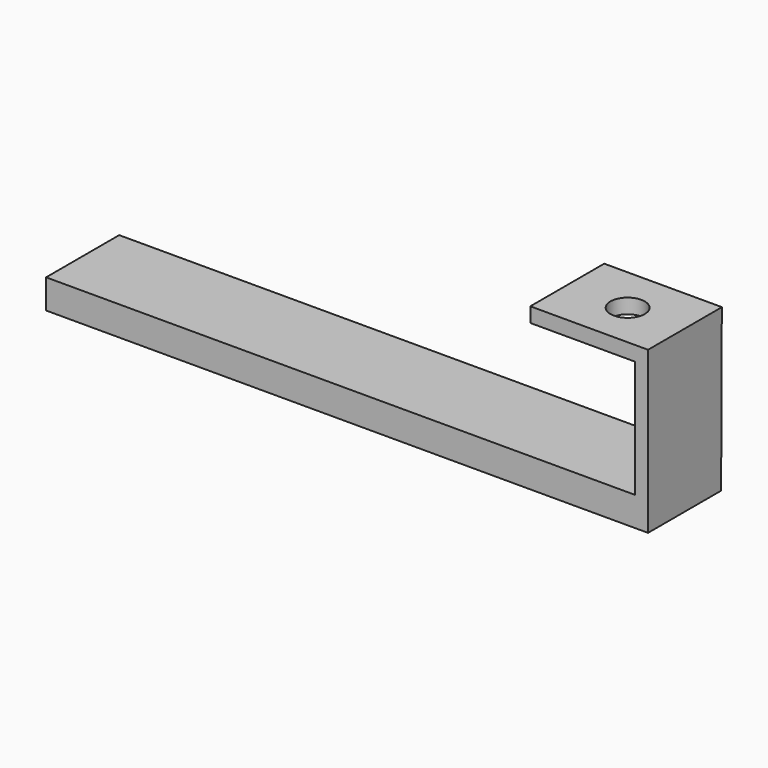
from build123d import *

# Parameters (mm, degrees)
F0_W     = 76.2404734269
F0_H     = 59.8093401641
F1_DEPTH = 9.525
F2_W     = 8.5795149207
F2_H     = 75.9475912213
F3_DEPTH = 59.436
F4_W     = 389.8571208119
F4_H     = 18.9275667071
F5_DEPTH = 59.182
F7_D     = 22.225
F7_DEPTH = 9.526


with BuildPart() as f1:
    # F0 (on Top) → F1 (new body)
    with BuildSketch(Plane.XY):
        with Locations((24.8636114411, -6.689065136)):
            Rectangle(F0_W, F0_H)
    extrude(amount=-F1_DEPTH)

    # F2 (on face) → F3 (join)
    with BuildSketch(Plane.XZ.offset(36.593735218)):
        with Locations((58.6940906942, -47.4987956107)):
            Rectangle(F2_W, F2_H)
    extrude(amount=-F3_DEPTH)

    # F4 (on face) → F5 (join)
    with BuildSketch(Plane.XZ.offset(36.593735218)):
        with Locations((-131.9447122514, -94.9363745749)):
            Rectangle(F4_W, F4_H)
    extrude(amount=-F5_DEPTH)

    # F7 (through all, one way)
    with BuildSketch(Plane(origin=(0, 0, -9.525), x_dir=(1, 0, 0), z_dir=(0, 0, -1))):
        with Locations((26.1457208544, 7.0796483196)):
            Circle(F7_D / 2)
    extrude(amount=-F7_DEPTH, mode=Mode.SUBTRACT)


solid = f1.part
